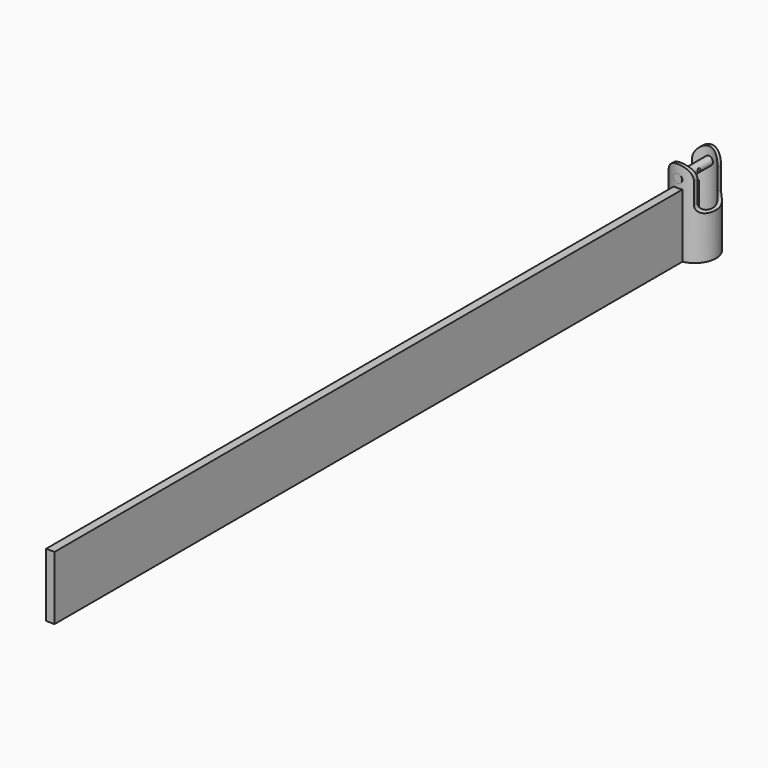
from build123d import *

# Parameters (mm, degrees)
F0_R      = 25
F0_R_2    = 21
F1_DEPTH  = 100
F3_DEPTH  = 25
F4_R      = 5
F5_DEPTH  = 25
F6_DEPTH  = 25
F7_R      = 2
F8_DEPTH  = 5
F9_W      = 10
F9_H      = 75
F10_DEPTH = 950


with BuildPart() as f1:
    # F0 (on Top) → F1 (new body)
    with BuildSketch(Plane.XY):
        Circle(F0_R)
        Circle(F0_R_2, mode=Mode.SUBTRACT)
    extrude(amount=F1_DEPTH)

    # F2 (on Front) → F3 (cut, symmetric)
    with BuildSketch(Plane.XZ):
        with BuildLine():
            Line((25, 100), (0, 100))
            ThreePointArc((0, 100), (10.606602, 95.606602), (15, 85))
            Line((15, 85), (15, 60.211768))
            ThreePointArc((15, 60.211768), (17.928932, 53.1407), (25, 50.211768))
            Line((25, 50.211768), (25, 100))
        make_face()
        with BuildLine():
            Line((-25, 100), (-25, 50.211768))
            ThreePointArc((-25, 50.211768), (-17.928932, 53.1407), (-15, 60.211768))
            Line((-15, 60.211768), (-15, 85))
            ThreePointArc((-15, 85), (-10.606602, 95.606602), (0, 100))
            Line((0, 100), (-25, 100))
        make_face()
    extrude(amount=F3_DEPTH, both=True, mode=Mode.SUBTRACT)

    # F4 (on Front) → F5 (cut, symmetric)
    with BuildSketch(Plane.XZ):
        with Locations((0, 85)):
            Circle(F4_R)
    extrude(amount=F5_DEPTH, both=True, mode=Mode.SUBTRACT)

    # F9 (on Front) → F10 (join)
    with BuildSketch(Plane.XZ):
        with Locations((0, 37.5)):
            Rectangle(F9_W, F9_H)
    extrude(amount=F10_DEPTH)


with BuildPart() as f6:
    # F4 (on Front) → F6 (new body, symmetric)
    with BuildSketch(Plane.XZ):
        with Locations((0, 85)):
            Circle(F4_R)
    extrude(amount=F6_DEPTH, both=True)

    # F7 (on Right) → F8 (cut, symmetric)
    with BuildSketch(Plane.YZ):
        with Locations((0, 85)):
            Circle(F7_R)
    extrude(amount=F8_DEPTH, both=True, mode=Mode.SUBTRACT)


solid = Compound([f1.part, f6.part])
